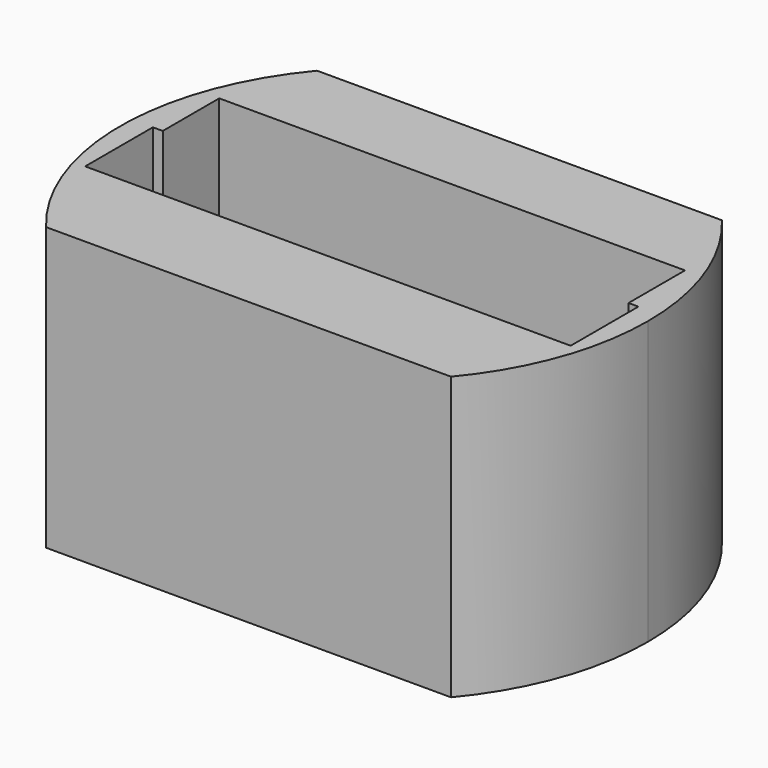
from build123d import *

# Parameters (mm, degrees)
F0_W     = 22
F0_H     = 12
F1_DEPTH = 1
F2_DEPTH = 10
F3_W     = 2.4
F3_H     = 2.5
F4_DEPTH = 9
F5_R     = 2
F6_R     = 12.5
F7_DEPTH = 25
F8_W     = 3.05
F8_H     = 1
F9_DEPTH = 25


with BuildPart() as f1:
    # F0 (on Top) → F1 (new body)
    with BuildSketch(Plane.XY):
        Rectangle(F0_W, F0_H)
        Polygon((-5.85, 3.0159242167), (0, 3.0159242167), (5.85, 3.0159242167), (5.85, 0.5159242167), (8.6, 0.5159242167), (8.6, -2.4840757833), (0, -2.4840757833), (-8.6, -2.4840757833), (-8.6, 0.5159242167), (-5.85, 0.5159242167), align=None, mode=Mode.SUBTRACT)
        Polygon((8.6, 0.5159242167), (5.85, 0.5159242167), (-5.85, 0.5159242167), (-8.6, 0.5159242167), (-8.6, -2.4840757833), (0, -2.4840757833), (8.6, -2.4840757833), align=None)
    extrude(amount=F1_DEPTH)

    # F0 (on Top) → F2 (join)
    with BuildSketch(Plane.XY):
        Rectangle(F0_W, F0_H)
        Polygon((-5.85, 3.0159242167), (0, 3.0159242167), (5.85, 3.0159242167), (5.85, 0.5159242167), (8.6, 0.5159242167), (8.6, -2.4840757833), (0, -2.4840757833), (-8.6, -2.4840757833), (-8.6, 0.5159242167), (-5.85, 0.5159242167), align=None, mode=Mode.SUBTRACT)
    extrude(amount=F2_DEPTH)

    # F3 (on face) → F4 (cut, through all)
    with BuildSketch(Plane.XY.offset(10)):
        with Locations((-7.05, 1.7659242167)):
            Rectangle(F3_W, F3_H)
        with Locations((7.05, 1.7659242167)):
            Rectangle(F3_W, F3_H)
    extrude(amount=-F4_DEPTH, mode=Mode.SUBTRACT)

    # F5
    f5_edges = [f1.edges().sort_by_distance(p)[0] for p in [
        (-11, -6, 5),
        (11, -6, 5),
        (-11, 6, 5),
        (11, 6, 5),
    ]]
    fillet(f5_edges, radius=F5_R)

    # F6 (on face) → F7 (cut)
    with BuildSketch(Plane.XY.offset(10)):
        Circle(F6_R)
        with BuildLine():
            ThreePointArc((-7.1709483334, 6), (0, 9.35), (7.1709483334, 6))
            Line((7.1709483334, 6), (9, 6))
            ThreePointArc((9, 6), (10.4142135624, 5.4142135624), (11, 4))
            Line((11, 4), (11, -4))
            ThreePointArc((11, -4), (10.4142135624, -5.4142135624), (9, -6))
            Line((9, -6), (7.1709483334, -6))
            ThreePointArc((7.1709483334, -6), (0, -9.35), (-7.1709483334, -6))
            Line((-7.1709483334, -6), (-9, -6))
            ThreePointArc((-9, -6), (-10.4142135624, -5.4142135624), (-11, -4))
            Line((-11, -4), (-11, 4))
            ThreePointArc((-11, 4), (-10.4142135624, 5.4142135624), (-9, 6))
            Line((-9, 6), (-7.1709483334, 6))
        make_face(mode=Mode.SUBTRACT)
        with BuildLine():
            ThreePointArc((-7.1709483334, -6), (-9.35, 0), (-7.1709483334, 6))
            Line((-7.1709483334, 6), (-9, 6))
            ThreePointArc((-9, 6), (-10.4142135624, 5.4142135624), (-11, 4))
            Line((-11, 4), (-11, -4))
            ThreePointArc((-11, -4), (-10.4142135624, -5.4142135624), (-9, -6))
            Line((-9, -6), (-7.1709483334, -6))
        make_face()
        with BuildLine():
            ThreePointArc((7.1709483334, 6), (8.788369215, 3.1917184308), (9.35, 0))
            ThreePointArc((9.35, 0), (8.788369215, -3.1917184308), (7.1709483334, -6))
            Line((7.1709483334, -6), (9, -6))
            ThreePointArc((9, -6), (10.4142135624, -5.4142135624), (11, -4))
            Line((11, -4), (11, 4))
            ThreePointArc((11, 4), (10.4142135624, 5.4142135624), (9, 6))
            Line((9, 6), (7.1709483334, 6))
        make_face()
    extrude(amount=-F7_DEPTH, mode=Mode.SUBTRACT)

    # F8 (on face) → F9 (cut)
    with BuildSketch(Plane.XY.offset(1)):
        with Locations((-2.825, 0.0159242167)):
            Rectangle(F8_W, F8_H)
        with Locations((2.825, 0.0159242167)):
            Rectangle(F8_W, F8_H)
    extrude(amount=-F9_DEPTH, mode=Mode.SUBTRACT)


solid = f1.part
